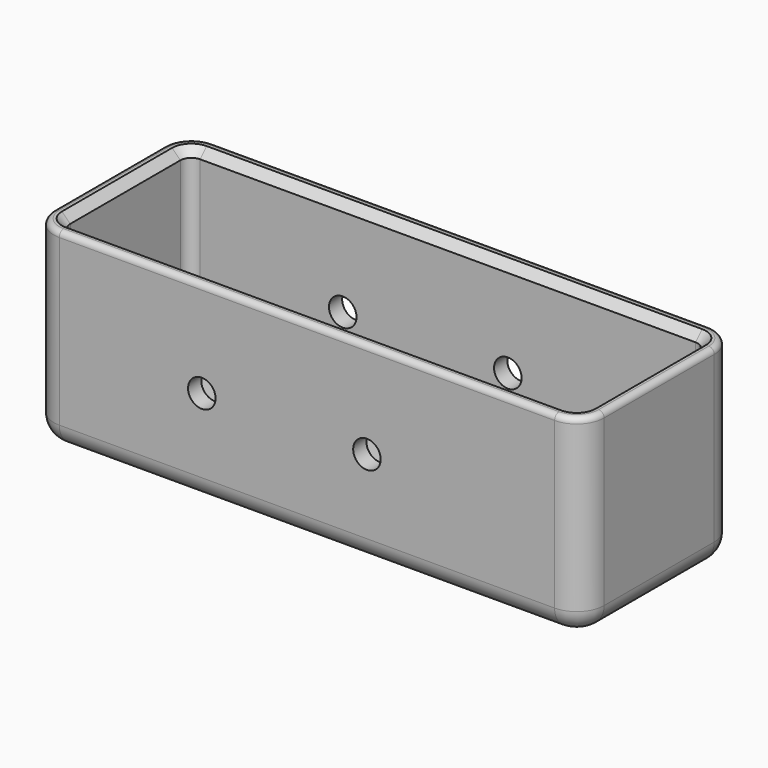
from build123d import *

# Parameters (mm, degrees)
F0_W     = 100
F0_H     = 35
F1_DEPTH = 35
F2_R     = 5
F3_R     = 4
F4_T     = -3
F6_D     = 5
F7_SIZE  = 1.5
F8_R     = 1


with BuildPart() as f1:
    # F0 (on Front) → F1 (new body)
    with BuildSketch(Plane.XZ):
        Rectangle(F0_W, F0_H)
    extrude(amount=F1_DEPTH)

    # F2
    f2_edges = [f1.edges().sort_by_distance(p)[0] for p in [
        (50, -35, 0),
        (50, 0, 0),
        (-50, -35, 0),
        (-50, 0, 0),
    ]]
    fillet(f2_edges, radius=F2_R)

    # F3
    f3_edges = [f1.edges().sort_by_distance(p)[0] for p in [
        (0, -35, -17.5),
    ]]
    fillet(f3_edges, radius=F3_R)

    # F4
    f4_openings = [f1.faces().sort_by_distance(p)[0] for p in [
        (0, -17.5, 17.5),
    ]]
    offset(amount=F4_T, openings=f4_openings)

    # F6 (through all)
    with Locations(Plane.XZ.offset(35)):
        with Locations((-19.0995354205, 0), (10.9004645795, 0)):
            Hole(F6_D / 2)

    # F7
    f7_edges = [f1.edges().sort_by_distance(p)[0] for p in [
        (-47, -17.5, 17.5),
        (0, -3, 17.5),
        (47, -17.5, 17.5),
        (0, -32, 17.5),
    ]]
    chamfer(f7_edges, length=F7_SIZE)

    # F8
    f8_edges = [f1.edges().sort_by_distance(p)[0] for p in [
        (-50, -17.5, 17.5),
    ]]
    fillet(f8_edges, radius=F8_R)


solid = f1.part
